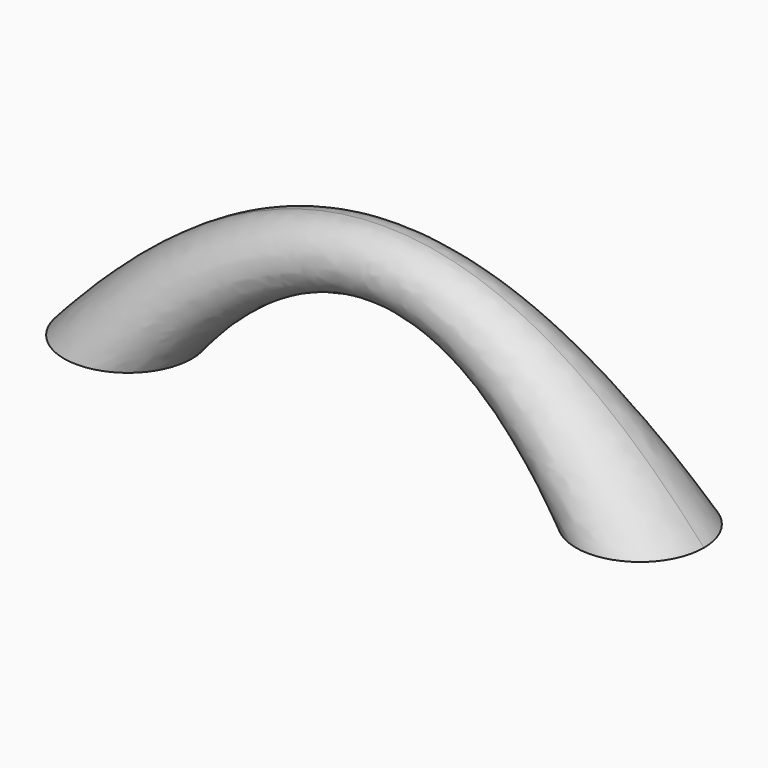
from build123d import *

# Parameters (mm, degrees)
SKETCH_R     = 15
SKETCH002_R  = 7.5
SKETCH001_R  = 15
SKETCH004_R  = 1.75
POCKET_DEPTH = 18


with BuildPart() as part:
    # Sketch → Loft section 0
    with BuildSketch(Plane.XY):
        with Locations((-60, 0)):
            Circle(SKETCH_R)
    # Sketch002 → Loft section 1
    with BuildSketch(Plane.YZ):
        with Locations((0, 34.505207)):
            Circle(SKETCH002_R)
    # Sketch001 → Loft section 2
    with BuildSketch(Plane.XY):
        with Locations((60, 0)):
            Circle(SKETCH001_R)
    loft()

    # Sketch004 → Pocket (cut)
    with BuildSketch(Plane.XY):
        with Locations((-52.5, 0)):
            Circle(SKETCH004_R)
        with Locations((52.5, 0)):
            Circle(SKETCH004_R)
    extrude(amount=POCKET_DEPTH, mode=Mode.SUBTRACT)


solid = part.part
